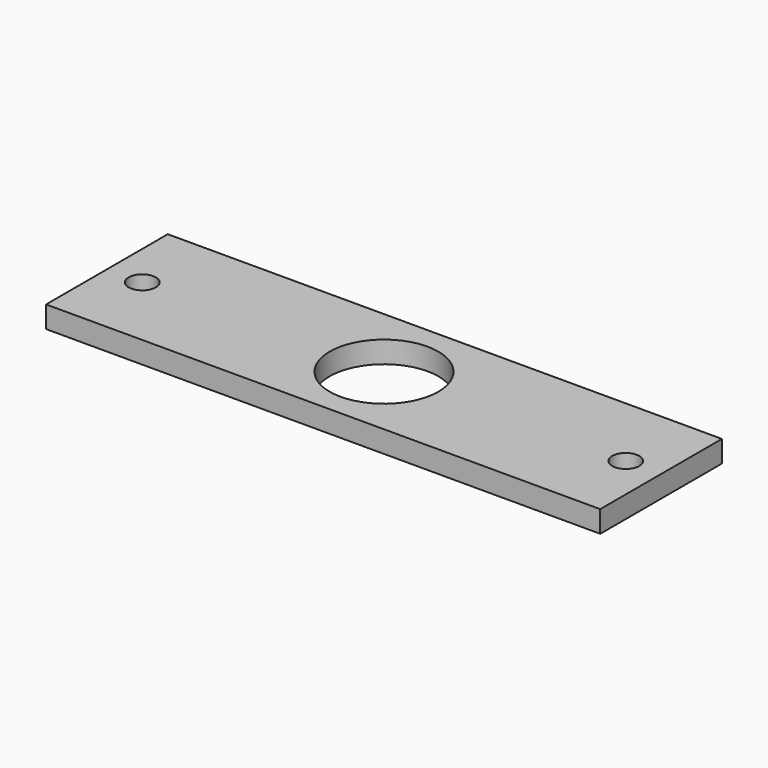
from build123d import *

# Parameters (mm, degrees)
SKETCH_W      = 51
SKETCH_H      = 14
PAD_DEPTH     = 2
SKETCH001_R   = 1.25
SKETCH001_R_2 = 5
POCKET_DEPTH  = 5


with BuildPart() as part:
    # Sketch → Pad (new body)
    with BuildSketch(Plane.XY):
        with Locations((25.5, 7)):
            Rectangle(SKETCH_W, SKETCH_H)
    extrude(amount=PAD_DEPTH)

    # Sketch001 (on Face6 of Pad) → Pocket (cut)
    with BuildSketch(Plane.XY.offset(2)):
        with Locations((3.25, 7)):
            Circle(SKETCH001_R)
        with Locations((25.5, 7)):
            Circle(SKETCH001_R_2)
        with Locations((47.75, 7)):
            Circle(SKETCH001_R)
    extrude(amount=-POCKET_DEPTH, mode=Mode.SUBTRACT)


solid = part.part
